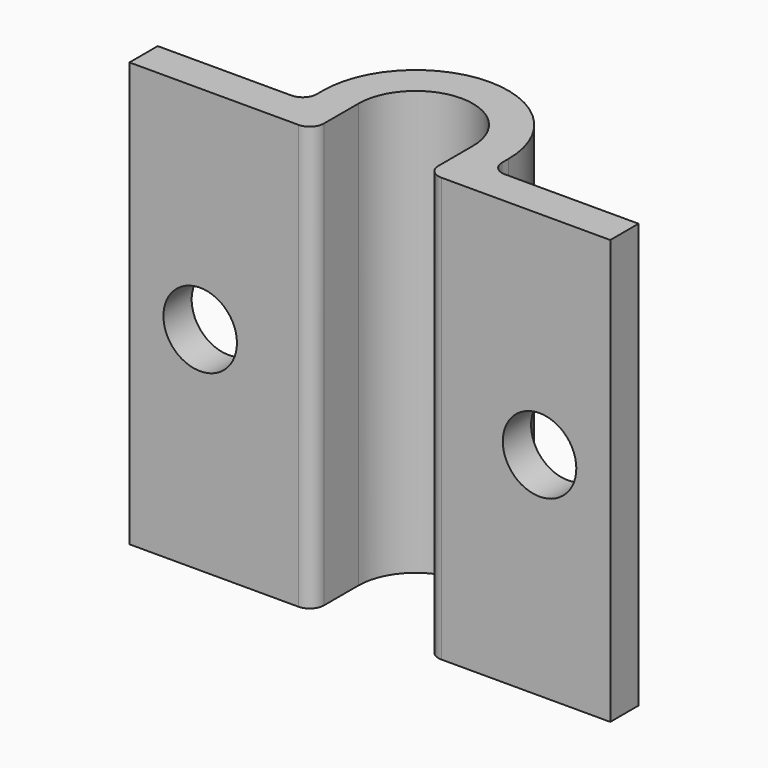
from build123d import *

# Parameters (mm, degrees)
F1_DEPTH = 15
F2_R     = 2.6
F3_DEPTH = 10.601
F4_R     = 1


with BuildPart() as f1:
    # F0 (on Top) → F1 (new body, symmetric)
    with BuildSketch(Plane.XY):
        with BuildLine():
            Line((-4.05, 0), (-4.05, 4.05))
            ThreePointArc((-4.05, 4.05), (0, 8.1), (4.05, 4.05))
            Line((4.05, 4.05), (4.05, 0))
            Line((4.05, 0), (17, 0))
            Line((17, 0), (17, 2.5))
            Line((17, 2.5), (6.55, 2.5))
            Line((6.55, 2.5), (6.55, 4.05))
            ThreePointArc((6.55, 4.05), (0, 10.6), (-6.55, 4.05))
            Line((-6.55, 4.05), (-6.55, 2.5))
            Line((-6.55, 2.5), (-17, 2.5))
            Line((-17, 2.5), (-17, 0))
            Line((-17, 0), (-4.05, 0))
        make_face()
    extrude(amount=F1_DEPTH, both=True)

    # F2 (on face) → F3 (cut, through all)
    with BuildSketch(Plane.XZ):
        with Locations((-12, 0)):
            Circle(F2_R)
        with Locations((12, 0)):
            Circle(F2_R)
    extrude(amount=-F3_DEPTH, mode=Mode.SUBTRACT)

    # F4
    f4_edges = [f1.edges().sort_by_distance(p)[0] for p in [
        (-4.05, 0, 0),
        (4.05, 0, 0),
        (6.55, 2.5, 0),
        (-6.55, 2.5, 0),
    ]]
    fillet(f4_edges, radius=F4_R)


solid = f1.part
